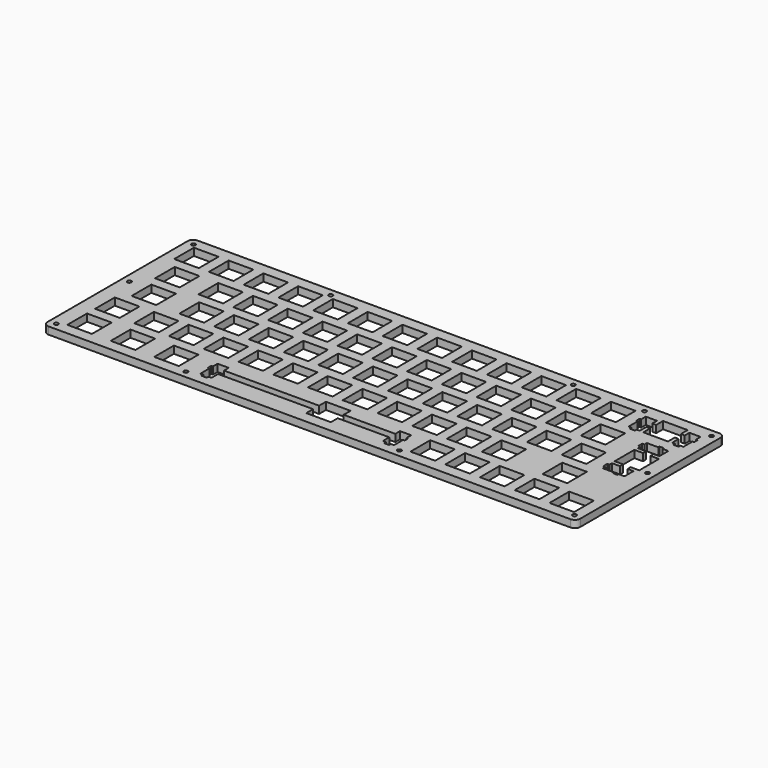
from build123d import *

# Parameters (mm, degrees)
F0_R     = 1.1
F1_DEPTH = 4
F2_W     = 13.50067
F2_H     = 13.5007
F2_W_2   = 13.4991
F2_W_3   = 13.5005
F2_W_4   = 13.5
F2_H_2   = 13.5005
F2_W_5   = 13.499
F2_W_6   = 13.4993
F2_H_3   = 13.5004
F2_W_7   = 13.4989
F2_W_8   = 13.49932
F2_W_9   = 13.5004
F2_W_10  = 13.5007
F2_W_11  = 13.5009
F2_W_12  = 13.502
F3_DEPTH = 4.001


with BuildPart() as f1:
    # F0 (on Top) → F1 (new body)
    with BuildSketch(Plane.XY):
        with BuildLine():
            Line((143, 51), (-143, 51))
            ThreePointArc((-143, 51), (-145.12132, 50.12132), (-146, 48))
            Line((-146, 48), (-146, -48))
            ThreePointArc((-146, -48), (-145.12132, -50.12132), (-143, -51))
            Line((-143, -51), (143, -51))
            ThreePointArc((143, -51), (145.12132, -50.12132), (146, -48))
            Line((146, -48), (146, 48))
            ThreePointArc((146, 48), (145.12132, 50.12132), (143, 51))
        make_face()
        with Locations((-142, -47)):
            Circle(F0_R, mode=Mode.SUBTRACT)
        with Locations((-71, -47)):
            Circle(F0_R, mode=Mode.SUBTRACT)
        with Locations((46, -47)):
            Circle(F0_R, mode=Mode.SUBTRACT)
        with Locations((142, -47)):
            Circle(F0_R, mode=Mode.SUBTRACT)
        with Locations((-142, 3)):
            Circle(F0_R, mode=Mode.SUBTRACT)
        with Locations((-142, 47)):
            Circle(F0_R, mode=Mode.SUBTRACT)
        with Locations((-66.825, 47)):
            Circle(F0_R, mode=Mode.SUBTRACT)
        with Locations((142, 3)):
            Circle(F0_R, mode=Mode.SUBTRACT)
        with Locations((66.175, 47)):
            Circle(F0_R, mode=Mode.SUBTRACT)
        with Locations((105.175, 47)):
            Circle(F0_R, mode=Mode.SUBTRACT)
        with Locations((142, 47)):
            Circle(F0_R, mode=Mode.SUBTRACT)
    extrude(amount=F1_DEPTH)

    # F2 (on face) → F3 (cut, through all)
    with BuildSketch(Plane.XY.offset(4)):
        Polygon((-6.75, -36.050203), (-18.657853, -36.050203), (-58.831953, -36.050203), (-58.831953, -32.820103), (-64.982253, -32.820103), (-64.982253, -36.050203), (-65.857153, -36.050203), (-65.857153, -38.350203), (-64.982253, -38.350203), (-64.982253, -44.620273), (-63.306553, -44.620273), (-63.306553, -45.820543), (-60.507653, -45.820543), (-60.507653, -44.620273), (-58.831953, -44.620273), (-58.831953, -40.149903), (-18.657853, -40.149903), (-6.75, -40.149903), (-6.75, -44.85), (-5.157853, -44.85), (6.75, -44.85), (6.75, -40.149903), (35.018147, -40.149903), (35.018147, -44.620273), (36.692147, -44.620273), (36.692147, -45.820543), (39.492147, -45.820543), (39.492147, -44.620273), (41.168147, -44.620273), (41.168147, -38.350203), (42.043147, -38.350203), (42.043147, -36.050203), (41.168147, -36.050203), (41.168147, -32.820103), (35.018147, -32.820103), (35.018147, -36.050203), (6.75, -36.050203), (6.75, -31.35), (-6.75, -31.35), align=None)
        with Locations((-130.968788, -38.100053)):
            Rectangle(F2_W, F2_H)
        with Locations((-107.157103, -38.100053)):
            Rectangle(F2_W_2, F2_H)
        with Locations((-83.343803, -38.100053)):
            Rectangle(F2_W_3, F2_H)
        with Locations((57.150147, -38.100053)):
            Rectangle(F2_W_4, F2_H)
        with Locations((76.200147, -38.100053)):
            Rectangle(F2_W_4, F2_H)
        with Locations((95.250147, -38.100053)):
            Rectangle(F2_W_4, F2_H)
        with Locations((114.300147, -38.100053)):
            Rectangle(F2_W_4, F2_H)
        with Locations((133.350147, -38.100053)):
            Rectangle(F2_W_4, F2_H)
        with Locations((-130.968788, -19.050153)):
            Rectangle(F2_W, F2_H_2)
        with Locations((-109.538303, -19.050153)):
            Rectangle(F2_W_2, F2_H_2)
        with Locations((-90.488253, -19.050153)):
            Rectangle(F2_W_5, F2_H_2)
        with Locations((-71.438253, -19.050153)):
            Rectangle(F2_W_5, F2_H_2)
        with Locations((-52.388253, -19.050153)):
            Rectangle(F2_W_5, F2_H_2)
        with Locations((-33.338353, -19.050153)):
            Rectangle(F2_W_5, F2_H_2)
        with Locations((-14.288353, -19.050153)):
            Rectangle(F2_W_5, F2_H_2)
        with Locations((4.761647, -19.050153)):
            Rectangle(F2_W_5, F2_H_2)
        with Locations((23.811647, -19.050153)):
            Rectangle(F2_W_5, F2_H_2)
        with Locations((42.861647, -19.050153)):
            Rectangle(F2_W_5, F2_H_2)
        with Locations((61.911647, -19.050153)):
            Rectangle(F2_W_5, F2_H_2)
        with Locations((80.961647, -19.050153)):
            Rectangle(F2_W_5, F2_H_2)
        with Locations((114.300147, -19.050153)):
            Rectangle(F2_W_4, F2_H_2)
        with Locations((-126.207003, -0.000103)):
            Rectangle(F2_W_6, F2_H_3)
        with Locations((-100.013253, -0.000103)):
            Rectangle(F2_W_5, F2_H_3)
        with Locations((-80.963253, -0.000103)):
            Rectangle(F2_W_5, F2_H_3)
        with Locations((-61.913253, -0.000103)):
            Rectangle(F2_W_5, F2_H_3)
        with Locations((-42.863303, -0.000103)):
            Rectangle(F2_W_7, F2_H_3)
        with Locations((-23.813353, -0.000103)):
            Rectangle(F2_W_5, F2_H_3)
        with Locations((-4.763353, -0.000103)):
            Rectangle(F2_W_5, F2_H_3)
        with Locations((14.286647, -0.000103)):
            Rectangle(F2_W_5, F2_H_3)
        with Locations((33.336647, -0.000103)):
            Rectangle(F2_W_5, F2_H_3)
        with Locations((52.386647, -0.000103)):
            Rectangle(F2_W_5, F2_H_3)
        with Locations((71.436647, -0.000103)):
            Rectangle(F2_W_5, F2_H_3)
        with Locations((90.486647, -0.000103)):
            Rectangle(F2_W_5, F2_H_3)
        with Locations((109.536647, -0.000103)):
            Rectangle(F2_W_5, F2_H_3)
        Polygon((133.018147, 25.425497), (130.717147, 25.425497), (130.717147, 24.550197), (124.448147, 24.550197), (124.448147, 22.874497), (123.248147, 22.874497), (123.248147, 20.074497), (124.448147, 20.074497), (124.448147, 18.400197), (128.917147, 18.400197), (128.917147, 16.275097), (124.218147, 16.275097), (124.218147, 2.774697), (128.917147, 2.774697), (128.917147, 0.649497), (124.448147, 0.649497), (124.448147, -1.024803), (123.248147, -1.024803), (123.248147, -3.824803), (124.448147, -3.824803), (124.448147, -5.500503), (130.717147, -5.500503), (130.717147, -6.375703), (133.018147, -6.375703), (133.018147, -5.500503), (136.247147, -5.500503), (136.247147, 0.649497), (133.018147, 0.649497), (133.018147, 2.774697), (137.717147, 2.774697), (137.717147, 16.275097), (133.018147, 16.275097), (133.018147, 18.400197), (136.247147, 18.400197), (136.247147, 24.550197), (133.018147, 24.550197), align=None)
        with Locations((-128.588213, 19.049897)):
            Rectangle(F2_W_8, F2_H_3)
        with Locations((-104.775103, 19.049897)):
            Rectangle(F2_W_3, F2_H_3)
        with Locations((-85.725053, 19.049897)):
            Rectangle(F2_W_9, F2_H_3)
        with Locations((-66.675053, 19.049897)):
            Rectangle(F2_W_9, F2_H_3)
        with Locations((-47.625053, 19.049897)):
            Rectangle(F2_W_9, F2_H_3)
        with Locations((-28.574853, 19.049897)):
            Rectangle(F2_W_4, F2_H_3)
        with Locations((-9.524853, 19.049897)):
            Rectangle(F2_W_4, F2_H_3)
        with Locations((9.525147, 19.049897)):
            Rectangle(F2_W_4, F2_H_3)
        with Locations((28.575147, 19.049897)):
            Rectangle(F2_W_4, F2_H_3)
        with Locations((47.625147, 19.049897)):
            Rectangle(F2_W_4, F2_H_3)
        with Locations((66.675147, 19.049897)):
            Rectangle(F2_W_4, F2_H_3)
        with Locations((85.725147, 19.049897)):
            Rectangle(F2_W_4, F2_H_3)
        with Locations((104.774647, 19.049897)):
            Rectangle(F2_W_5, F2_H_3)
        Polygon((130.575147, 44.850097), (117.075147, 44.850097), (117.075147, 40.149697), (114.949147, 40.149697), (114.949147, 43.379697), (108.799147, 43.379697), (108.799147, 40.149697), (107.924147, 40.149697), (107.924147, 37.849897), (108.799147, 37.849897), (108.799147, 31.579697), (110.475147, 31.579697), (110.475147, 30.379497), (113.274147, 30.379497), (113.274147, 31.579697), (114.949147, 31.579697), (114.949147, 36.050097), (117.075147, 36.050097), (117.075147, 31.349697), (130.575147, 31.349697), (130.575147, 36.050097), (132.700147, 36.050097), (132.700147, 31.579697), (134.374147, 31.579697), (134.374147, 30.379497), (137.174147, 30.379497), (137.174147, 31.579697), (138.850147, 31.579697), (138.850147, 37.849897), (139.725147, 37.849897), (139.725147, 40.149697), (138.850147, 40.149697), (138.850147, 43.379697), (132.700147, 43.379697), (132.700147, 40.149697), (130.575147, 40.149697), align=None)
        with Locations((-133.350003, 38.099897)):
            Rectangle(F2_W_10, F2_H_3)
        with Locations((-114.300103, 38.099897)):
            Rectangle(F2_W_3, F2_H_3)
        with Locations((-95.250053, 38.099897)):
            Rectangle(F2_W_9, F2_H_3)
        with Locations((-76.200053, 38.099897)):
            Rectangle(F2_W_9, F2_H_3)
        with Locations((-57.150053, 38.099897)):
            Rectangle(F2_W_9, F2_H_3)
        with Locations((-38.101303, 38.099897)):
            Rectangle(F2_W_11, F2_H_3)
        with Locations((-19.050853, 38.099897)):
            Rectangle(F2_W_12, F2_H_3)
        with Locations((0.000147, 38.099897)):
            Rectangle(F2_W_4, F2_H_3)
        with Locations((19.050147, 38.099897)):
            Rectangle(F2_W_4, F2_H_3)
        with Locations((38.100147, 38.099897)):
            Rectangle(F2_W_4, F2_H_3)
        with Locations((57.150147, 38.099897)):
            Rectangle(F2_W_4, F2_H_3)
        with Locations((76.200147, 38.099897)):
            Rectangle(F2_W_4, F2_H_3)
        with Locations((95.250147, 38.099897)):
            Rectangle(F2_W_4, F2_H_3)
    extrude(amount=-F3_DEPTH, mode=Mode.SUBTRACT)


solid = f1.part
